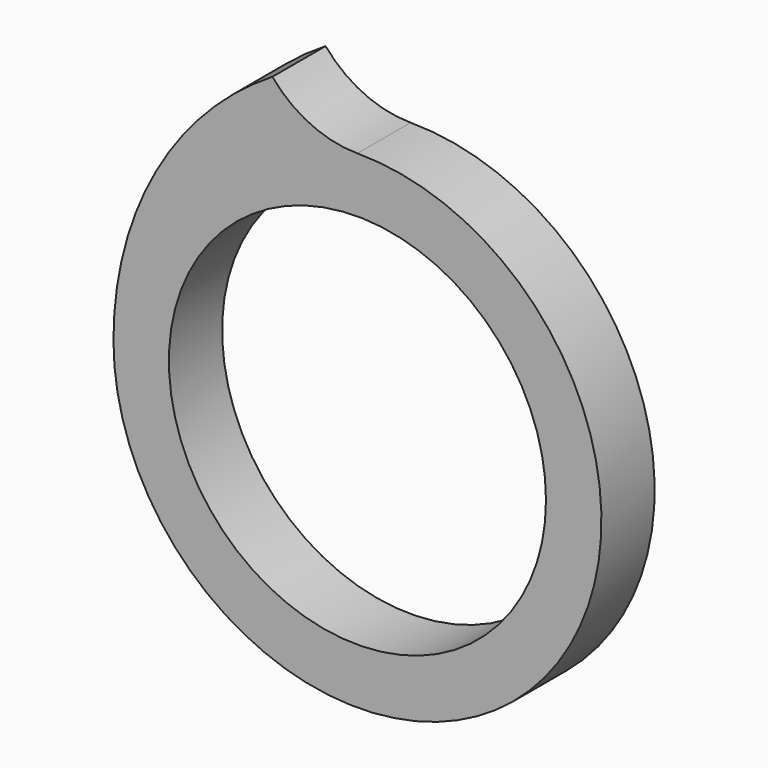
from build123d import *

# Parameters (mm, degrees)
F0_R     = 8.5
F1_DEPTH = 3


with BuildPart() as f1:
    # F0 (on Front) → F1 (new body)
    with BuildSketch(Plane.XZ):
        with BuildLine():
            ThreePointArc((-3.834644, 12.791339), (-9.086628, 7.330769), (-11, 0))
            ThreePointArc((-11, 0), (7.778175, -7.778175), (0, 11))
            ThreePointArc((0, 11), (-2.116211, 11.469917), (-3.834644, 12.791339))
        make_face()
        Circle(F0_R, mode=Mode.SUBTRACT)
    extrude(amount=F1_DEPTH)


solid = f1.part
